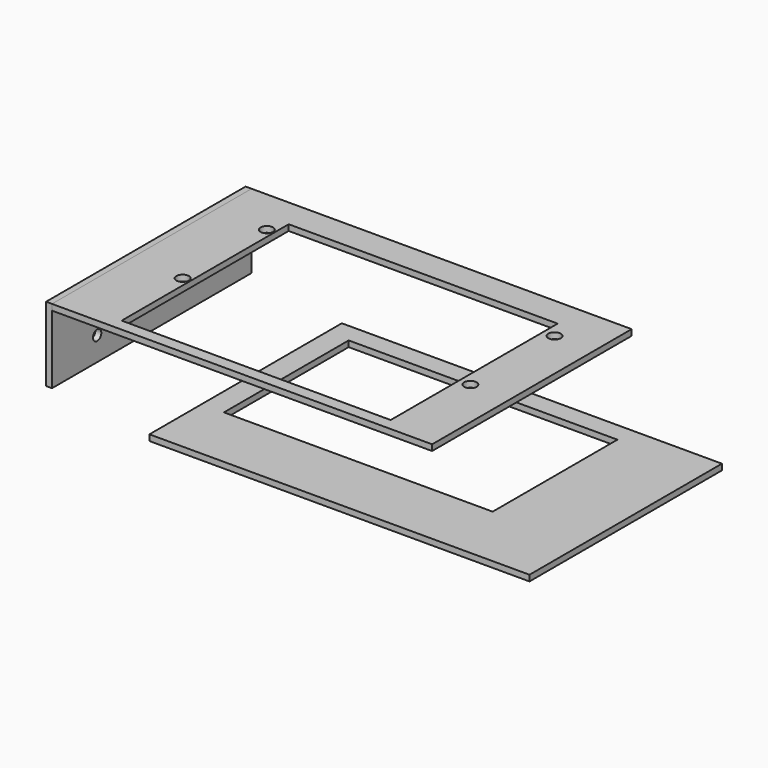
from build123d import *

# Parameters (mm, degrees)
SKETCH001_W      = 128
SKETCH001_H      = 81
EXTRUDE_DEPTH    = 2
SKETCH002_W      = 90.5
SKETCH002_H      = 52.5
POCKET_DEPTH     = 2.001
SKETCH003_W      = 128
SKETCH003_H      = 84
SKETCH003_R      = 2.1
SKETCH003_W_2    = 90.6
SKETCH003_H_2    = 70.3
PAD_DEPTH        = 2
SKETCH004_W      = 84
SKETCH004_H      = 25
SKETCH004_R      = 1.75
EXTRUDE001_DEPTH = 2


with BuildPart() as pocket:
    # Sketch001 → Extrude (new body)
    with BuildSketch(Plane.XY):
        with Locations((64, -40.5)):
            Rectangle(SKETCH001_W, SKETCH001_H)
    extrude(amount=-EXTRUDE_DEPTH)

    # Sketch002 (on Face6 of Extrude) → Pocket (cut, through all)
    with BuildSketch(Plane.XY):
        with Locations((52.75, -32.75)):
            Rectangle(SKETCH002_W, SKETCH002_H)
    extrude(amount=-POCKET_DEPTH, mode=Mode.SUBTRACT)


with BuildPart() as body001:
    # Sketch003 → Pad (new body)
    with BuildSketch(Plane.XY):
        Rectangle(SKETCH003_W, SKETCH003_H)
        with Locations((-46.3, 26.3)):
            Circle(SKETCH003_R, mode=Mode.SUBTRACT)
        with Locations((-46.3, -9.15)):
            Circle(SKETCH003_R, mode=Mode.SUBTRACT)
        with Locations((50.6, -9.15)):
            Circle(SKETCH003_R, mode=Mode.SUBTRACT)
        with Locations((50.6, 26.3)):
            Circle(SKETCH003_R, mode=Mode.SUBTRACT)
        with Locations((1.55, -2.85)):
            Rectangle(SKETCH003_W_2, SKETCH003_H_2, mode=Mode.SUBTRACT)
    extrude(amount=PAD_DEPTH)


with BuildPart() as extrude001:
    # Sketch004 (on Face2 of Pad) → Extrude001 (new body)
    with BuildSketch(Plane.YZ.offset(64)):
        with Locations((0, -10.5)):
            Rectangle(SKETCH004_W, SKETCH004_H)
        with Locations((-23, -15)):
            Circle(SKETCH004_R, mode=Mode.SUBTRACT)
        with Locations((32.5, -15)):
            Circle(SKETCH004_R, mode=Mode.SUBTRACT)
    extrude(amount=EXTRUDE001_DEPTH)


with BuildPart() as part_mirroring:
    # Part__Mirroring: instance of Extrude001
    add(extrude001.part.mirror(Plane(origin=(0, 0, 0), x_dir=(0, -1, 0), z_dir=(1, 0, 0))))


solid = Compound([pocket.part, body001.part, part_mirroring.part])
